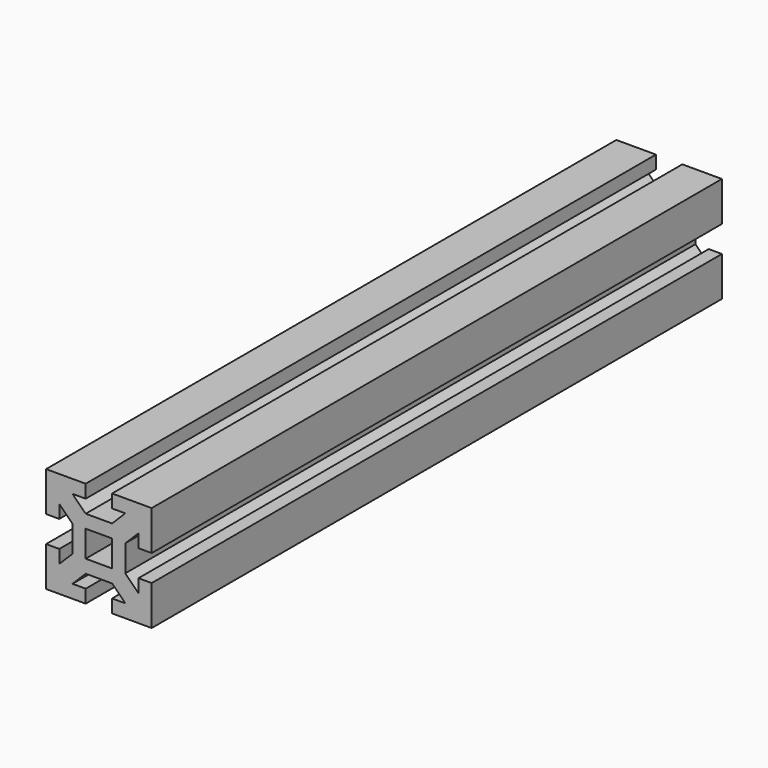
from build123d import *

# Parameters (mm, degrees)
F1_DEPTH = 270


with BuildPart() as f1:
    # F0 (on Front) → F1 (new body)
    with BuildSketch(Plane.XZ):
        Polygon((20, 5), (20, 20), (5, 20), (5, 15), (10, 15), (5, 10), (-5, 10), (-10, 15), (-5, 15), (-5, 20), (-20, 20), (-20, 5), (-15, 5), (-15, 10), (-10, 5), (-10, -5), (-15, -10), (-15, -5), (-20, -5), (-20, -20), (-5, -20), (-5, -15), (-10, -15), (-5, -10), (5, -10), (10, -15), (5, -15), (5, -20), (20, -20), (20, -5), (15, -5), (15, -10), (10, -5), (10, 5), (15, 10), (15, 5), align=None)
        Polygon((-5, 0), (-5, 5), (0, 5), (5, 5), (5, 0), (5, -5), (0, -5), (-5, -5), align=None, mode=Mode.SUBTRACT)
    extrude(amount=F1_DEPTH)


solid = f1.part
